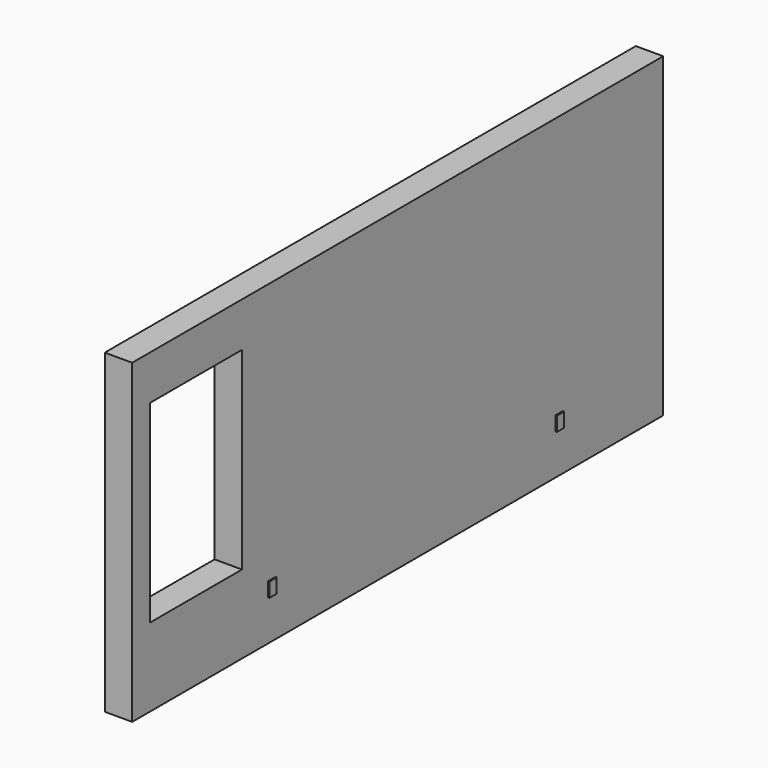
from build123d import *

# Parameters (mm, degrees)
SKETCH_W     = 5080
SKETCH_H     = 2420
SKETCH_W_2   = 880
SKETCH_H_2   = 1480
PAD_DEPTH    = 210
SKETCH001_W  = 70
SKETCH001_H  = 110
PAD001_DEPTH = 10


with BuildPart() as part:
    # Sketch → Pad (new body)
    with BuildSketch(Plane.YZ):
        with Locations((2540, 1210)):
            Rectangle(SKETCH_W, SKETCH_H)
        with Locations((610, 1340)):
            Rectangle(SKETCH_W_2, SKETCH_H_2, mode=Mode.SUBTRACT)
    extrude(amount=PAD_DEPTH)

    # Sketch001 (on Face10 of Pad) → Pad001 (join)
    with BuildSketch(Plane.YZ.offset(210)):
        with Locations((1335, 365)):
            Rectangle(SKETCH001_W, SKETCH001_H)
        with Locations((4085, 365)):
            Rectangle(SKETCH001_W, SKETCH001_H)
    extrude(amount=PAD001_DEPTH)


solid = part.part
